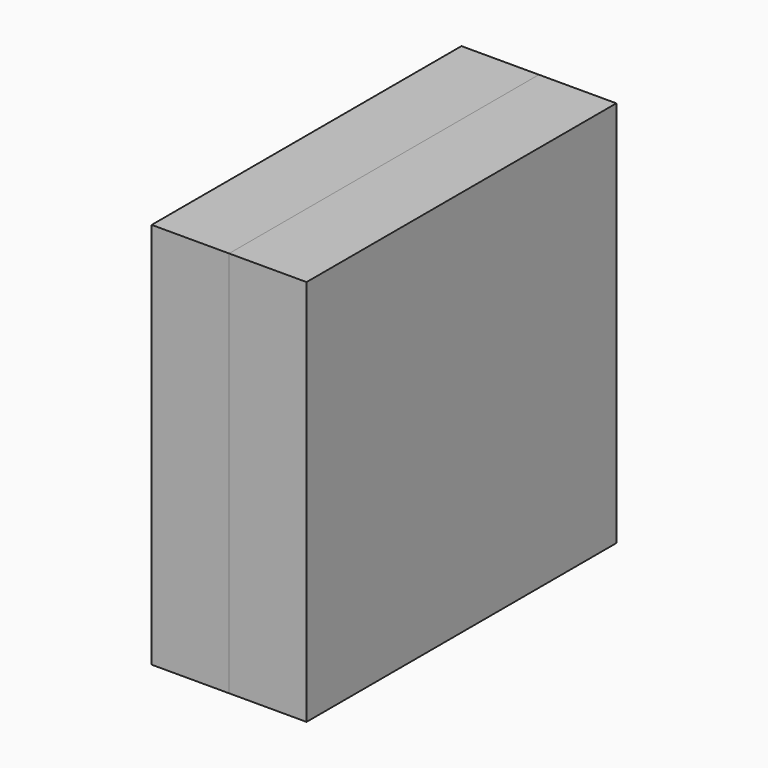
from build123d import *

# Parameters (mm, degrees)
F0_W     = 50
F0_H     = 50
F1_DEPTH = 10
F2_W     = 50
F2_H     = 50
F3_DEPTH = 10


with BuildPart() as f1:
    # F0 (on Right) → F1 (new body)
    with BuildSketch(Plane.YZ):
        with Locations((-25, -25)):
            Rectangle(F0_W, F0_H)
    extrude(amount=F1_DEPTH)


with BuildPart() as f3:
    # F2 (on face) → F3 (new body)
    with BuildSketch(Plane(origin=(0, 0, 0), x_dir=(0, -1, 0), z_dir=(-1, 0, 0))):
        with Locations((25, -25)):
            Rectangle(F2_W, F2_H)
    extrude(amount=F3_DEPTH)


solid = Compound([f1.part, f3.part])
